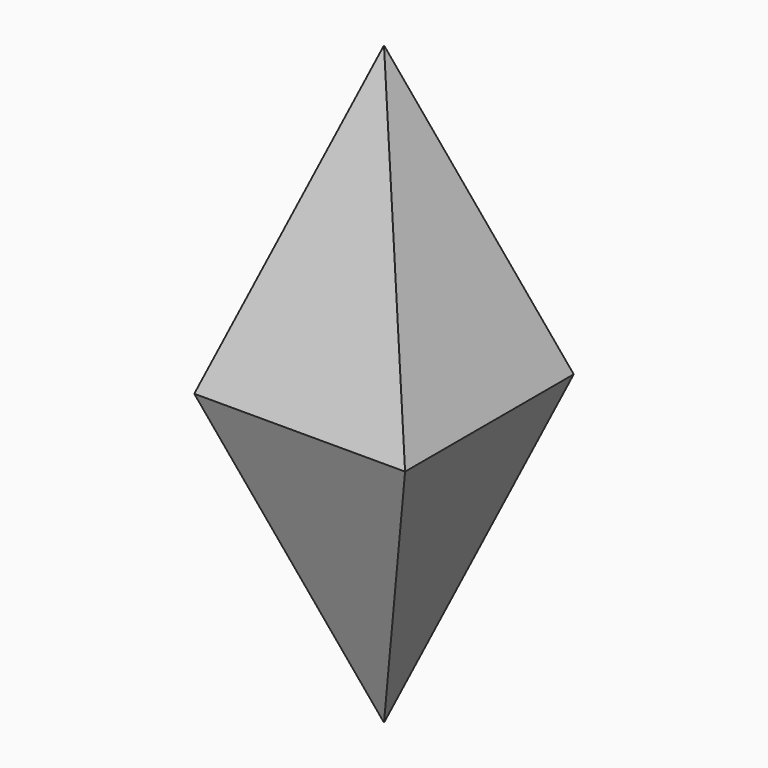
from build123d import *

# Parameters (mm, degrees)
F0_W     = 25.4
F0_H     = 25.4
F1_DEPTH = 35.814
F1_TAPER = 19.471
F2_W     = 25.4
F2_H     = 25.4
F3_DEPTH = 35.814
F3_TAPER = 19.471


with BuildPart() as f1:
    # F0 (on Top) → F1 (new body)
    with BuildSketch(Plane.XY):
        Rectangle(F0_W, F0_H)
    extrude(amount=F1_DEPTH, taper=F1_TAPER)

    # F2 (on Top) → F3 (join)
    with BuildSketch(Plane.XY):
        Rectangle(F2_W, F2_H)
    extrude(amount=-F3_DEPTH, taper=F3_TAPER)


solid = f1.part
